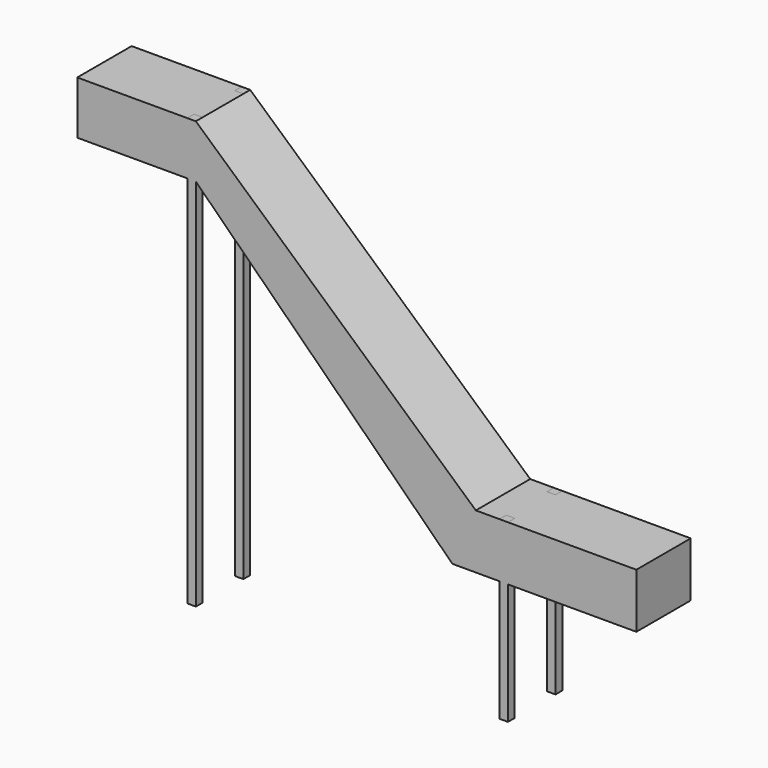
from build123d import *

# Parameters (mm, degrees)
F1_DEPTH = 203.2
F2_W     = 50.8
F2_H     = 2555.379153
F2_H_2   = 1051.109195
F3_DEPTH = 50.8


with BuildPart() as f1:
    # F0 (on Front) → F1 (new body, symmetric)
    with BuildSketch(Plane.XZ):
        Polygon((644.477546, 66.356421), (-64.626962, 66.356421), (-64.626962, -250.874072), (644.477546, -250.874072), (2178.918123, -1764.880776), (3279.188871, -1764.880776), (3279.188871, -1437.913537), (2319.046974, -1437.913537), align=None)
    extrude(amount=F1_DEPTH, both=True)

    # F2 (on face) → F3 (join)
    with BuildSketch(Plane.XZ.offset(203.2)):
        with Locations((619.077546, -1211.333155)):
            Rectangle(F2_W, F2_H)
        with Locations((2485.710698, -1963.468134)):
            Rectangle(F2_W, F2_H_2)
    extrude(amount=-F3_DEPTH)

    # F4: F1 across plane


with BuildPart() as f1_1:
    add(f1.part)
    add(f1.part.mirror(Plane.XZ))


solid = f1_1.part
